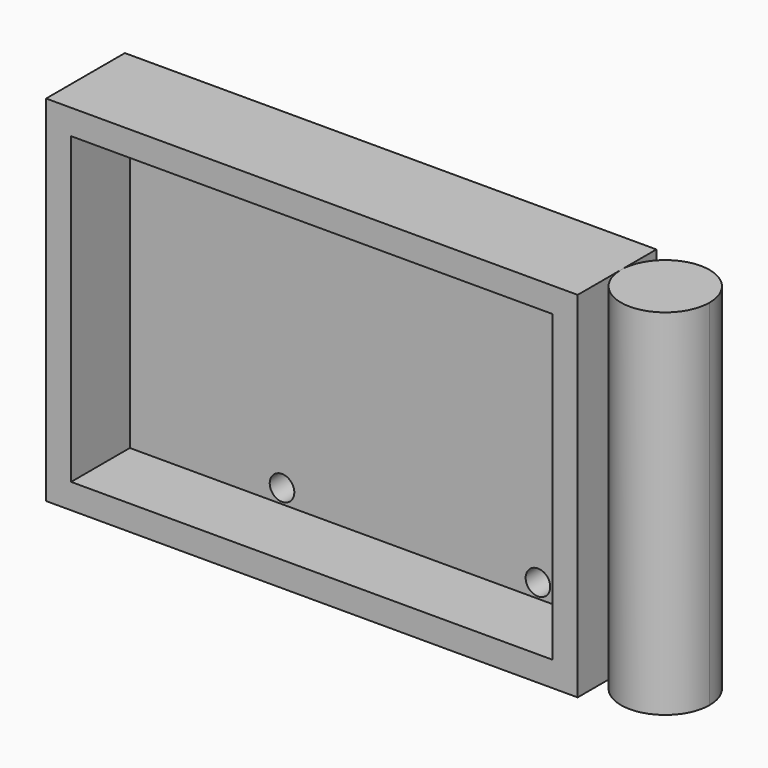
from build123d import *

# Parameters (mm, degrees)
F1_W     = 54
F1_H     = 36
F2_DEPTH = 10
F3_T     = -2.54
F4_D     = 2.5
F5_R     = 4.5
F6_DEPTH = 36


with BuildPart() as f2:
    # F1 (on Front) → F2 (new body)
    with BuildSketch(Plane.XZ):
        with Locations((27, 18)):
            Rectangle(F1_W, F1_H)
    extrude(amount=F2_DEPTH)

    # F3
    f3_openings = [f2.faces().sort_by_distance(p)[0] for p in [
        (27, -10, 18),
    ]]
    offset(amount=F3_T, openings=f3_openings)

    # F4 (through all)
    with Locations(Plane(origin=(0, 0, 0), x_dir=(1, 0, 0), z_dir=(0, 1, 0))):
        with Locations((44, -4), (44, -32), (18, -4)):
            Hole(F4_D / 2)

    # F5 (on Top) → F6 (join, through all)
    with BuildSketch(Plane.XY):
        with Locations((58.5, -4.5)):
            Circle(F5_R)
    extrude(amount=F6_DEPTH)


solid = f2.part
